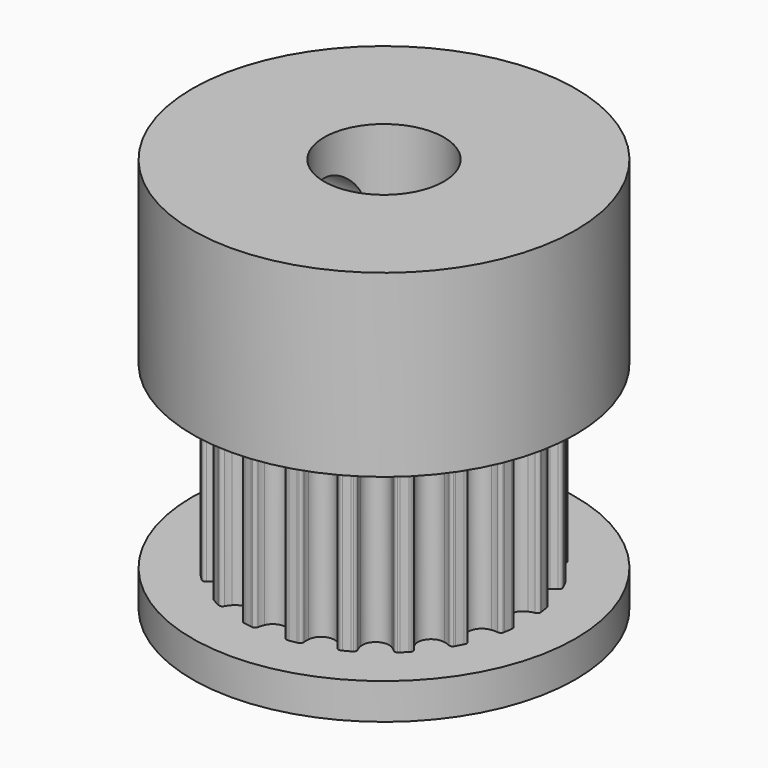
from build123d import *

# Parameters (mm, degrees)
F1_DEPTH  = 7.5
F2_R      = 8
F3_DEPTH  = 9
F4_R      = 8
F5_DEPTH  = 1.5
F6_R      = 2.5
F7_DEPTH  = 18.001
F8_R      = 1.5
F9_DEPTH  = 8.001
F10_DEPTH = 1.5


with BuildPart() as f1:
    # F0 (on Top) → F1 (new body)
    with BuildSketch(Plane.XY):
        with BuildLine():
            ThreePointArc((-0.5137469529, -5.5950260293), (0, -5.25), (0.5137469529, -5.5950260293))
            ThreePointArc((0.5137469529, -5.5950260293), (0.5592692601, -5.7125893356), (0.5896381917, -5.8349459432))
            ThreePointArc((0.5896381917, -5.8349459432), (0.634011817, -5.9169199806), (0.718236871, -5.9568562008))
            ThreePointArc((0.718236871, -5.9568562008), (0.7555100891, -5.952243653), (0.7927537045, -5.9473978818))
            ThreePointArc((0.7927537045, -5.9473978818), (0.9386067902, -5.9261300436), (1.0838934413, -5.9012858775))
            ThreePointArc((1.0838934413, -5.9012858775), (1.1208116501, -5.8943855698), (1.1576859427, -5.8872543055))
            ThreePointArc((1.1576859427, -5.8872543055), (1.2254477584, -5.82324573), (1.2423182132, -5.7315715833))
            ThreePointArc((1.2423182132, -5.7315715833), (1.2333905124, -5.6058190183), (1.2403557397, -5.4799425032))
            ThreePointArc((1.2403557397, -5.4799425032), (1.6223392205, -4.9930467105), (2.2175605143, -5.1624294247))
            ThreePointArc((2.2175605143, -5.1624294247), (2.2971838607, -5.2601716067), (2.3638767022, -5.3671551397))
            ThreePointArc((2.3638767022, -5.3671551397), (2.4314098983, -5.4314048778), (2.5238536555, -5.4433595073))
            ThreePointArc((2.5238536555, -5.4433595073), (2.5578772368, -5.4274546558), (2.5918005942, -5.4113371434))
            ThreePointArc((2.5918005942, -5.4113371434), (2.7239429984, -5.3460391451), (2.8544415451, -5.2775148949))
            ThreePointArc((2.8544415451, -5.2775148949), (2.8874205358, -5.2595439583), (2.9202863902, -5.2413669399))
            ThreePointArc((2.9202863902, -5.2413669399), (2.964951969, -5.1595516144), (2.9526678557, -5.0671510626))
            ThreePointArc((2.9526678557, -5.0671510626), (2.905317428, -4.9503120775), (2.8730437705, -4.828444024))
            ThreePointArc((2.8730437705, -4.828444024), (3.0858725745, -4.2473392205), (3.7043038019, -4.2244982593))
            ThreePointArc((3.7043038019, -4.2244982593), (3.8102340997, -4.2928516312), (3.906722491, -4.373989796))
            ThreePointArc((3.906722491, -4.373989796), (3.9908046381, -4.4142260228), (4.0824180595, -4.3970288591))
            ThreePointArc((4.0824180595, -4.3970288591), (4.1098615388, -4.3713885816), (4.1371439837, -4.3455770225))
            ThreePointArc((4.1371439837, -4.3455770225), (4.2426406871, -4.2426406871), (4.3455770225, -4.1371439837))
            ThreePointArc((4.3455770225, -4.1371439837), (4.3713885816, -4.1098615388), (4.3970288591, -4.0824180595))
            ThreePointArc((4.3970288591, -4.0824180595), (4.4142260228, -3.9908046381), (4.373989796, -3.906722491))
            ThreePointArc((4.373989796, -3.906722491), (4.2928516312, -3.8102340997), (4.2244982593, -3.7043038019))
            ThreePointArc((4.2244982593, -3.7043038019), (4.2473392205, -3.0858725745), (4.828444024, -2.8730437705))
            ThreePointArc((4.828444024, -2.8730437705), (4.9503120775, -2.905317428), (5.0671510626, -2.9526678557))
            ThreePointArc((5.0671510626, -2.9526678557), (5.1595516144, -2.964951969), (5.2413669399, -2.9202863902))
            ThreePointArc((5.2413669399, -2.9202863902), (5.2595439583, -2.8874205358), (5.2775148949, -2.8544415451))
            ThreePointArc((5.2775148949, -2.8544415451), (5.3460391451, -2.7239429984), (5.4113371434, -2.5918005942))
            ThreePointArc((5.4113371434, -2.5918005942), (5.4432427829, -2.4673716464), (5.3671551397, -2.3638767022))
            ThreePointArc((5.3671551397, -2.3638767022), (5.2601716067, -2.2971838607), (5.1624294247, -2.2175605143))
            ThreePointArc((5.1624294247, -2.2175605143), (4.9930467105, -1.6223392205), (5.4799425032, -1.2403557397))
            ThreePointArc((5.4799425032, -1.2403557397), (5.6058190183, -1.2333905124), (5.7315715833, -1.2423182132))
            ThreePointArc((5.7315715833, -1.2423182132), (5.82324573, -1.2254477584), (5.8872543055, -1.1576859427))
            ThreePointArc((5.8872543055, -1.1576859427), (5.8943855698, -1.1208116501), (5.9012858775, -1.0838934413))
            ThreePointArc((5.9012858775, -1.0838934413), (5.9261300436, -0.9386067902), (5.9473978818, -0.7927537045))
            ThreePointArc((5.9473978818, -0.7927537045), (5.952243653, -0.7555100891), (5.9568562008, -0.718236871))
            ThreePointArc((5.9568562008, -0.718236871), (5.9169199806, -0.634011817), (5.8349459432, -0.5896381917))
            ThreePointArc((5.8349459432, -0.5896381917), (5.7125893356, -0.5592692601), (5.5950260293, -0.5137469529))
            ThreePointArc((5.5950260293, -0.5137469529), (5.25, 0), (5.5950260293, 0.5137469529))
            ThreePointArc((5.5950260293, 0.5137469529), (5.7125893356, 0.5592692601), (5.8349459432, 0.5896381917))
            ThreePointArc((5.8349459432, 0.5896381917), (5.9169199806, 0.634011817), (5.9568562008, 0.718236871))
            ThreePointArc((5.9568562008, 0.718236871), (5.952243653, 0.7555100891), (5.9473978818, 0.7927537045))
            ThreePointArc((5.9473978818, 0.7927537045), (5.9261300436, 0.9386067902), (5.9012858775, 1.0838934413))
            ThreePointArc((5.9012858775, 1.0838934413), (5.8943855698, 1.1208116501), (5.8872543055, 1.1576859427))
            ThreePointArc((5.8872543055, 1.1576859427), (5.82324573, 1.2254477584), (5.7315715833, 1.2423182132))
            ThreePointArc((5.7315715833, 1.2423182132), (5.6058190183, 1.2333905124), (5.4799425032, 1.2403557397))
            ThreePointArc((5.4799425032, 1.2403557397), (4.9930467105, 1.6223392205), (5.1624294247, 2.2175605143))
            ThreePointArc((5.1624294247, 2.2175605143), (5.2601716067, 2.2971838607), (5.3671551397, 2.3638767022))
            ThreePointArc((5.3671551397, 2.3638767022), (5.4314048778, 2.4314098983), (5.4433595073, 2.5238536555))
            ThreePointArc((5.4433595073, 2.5238536555), (5.4274546558, 2.5578772368), (5.4113371434, 2.5918005942))
            ThreePointArc((5.4113371434, 2.5918005942), (5.3460391451, 2.7239429984), (5.2775148949, 2.8544415451))
            ThreePointArc((5.2775148949, 2.8544415451), (5.2595439583, 2.8874205358), (5.2413669399, 2.9202863902))
            ThreePointArc((5.2413669399, 2.9202863902), (5.1595516144, 2.964951969), (5.0671510626, 2.9526678557))
            ThreePointArc((5.0671510626, 2.9526678557), (4.9503120775, 2.905317428), (4.828444024, 2.8730437705))
            ThreePointArc((4.828444024, 2.8730437705), (4.2473392205, 3.0858725745), (4.2244982593, 3.7043038019))
            ThreePointArc((4.2244982593, 3.7043038019), (4.2928516312, 3.8102340997), (4.373989796, 3.906722491))
            ThreePointArc((4.373989796, 3.906722491), (4.4142260228, 3.9908046381), (4.3970288591, 4.0824180595))
            ThreePointArc((4.3970288591, 4.0824180595), (4.3713885816, 4.1098615388), (4.3455770225, 4.1371439837))
            ThreePointArc((4.3455770225, 4.1371439837), (4.2426406871, 4.2426406871), (4.1371439837, 4.3455770225))
            ThreePointArc((4.1371439837, 4.3455770225), (4.1098615388, 4.3713885816), (4.0824180595, 4.3970288591))
            ThreePointArc((4.0824180595, 4.3970288591), (3.9908046381, 4.4142260228), (3.906722491, 4.373989796))
            ThreePointArc((3.906722491, 4.373989796), (3.8102340997, 4.2928516312), (3.7043038019, 4.2244982593))
            ThreePointArc((3.7043038019, 4.2244982593), (3.0858725745, 4.2473392205), (2.8730437705, 4.828444024))
            ThreePointArc((2.8730437705, 4.828444024), (2.905317428, 4.9503120775), (2.9526678557, 5.0671510626))
            ThreePointArc((2.9526678557, 5.0671510626), (2.964951969, 5.1595516144), (2.9202863902, 5.2413669399))
            ThreePointArc((2.9202863902, 5.2413669399), (2.8874205358, 5.2595439583), (2.8544415451, 5.2775148949))
            ThreePointArc((2.8544415451, 5.2775148949), (2.7239429984, 5.3460391451), (2.5918005942, 5.4113371434))
            ThreePointArc((2.5918005942, 5.4113371434), (2.5578772368, 5.4274546558), (2.5238536555, 5.4433595073))
            ThreePointArc((2.5238536555, 5.4433595073), (2.4314098983, 5.4314048778), (2.3638767022, 5.3671551397))
            ThreePointArc((2.3638767022, 5.3671551397), (2.2971838607, 5.2601716067), (2.2175605143, 5.1624294247))
            ThreePointArc((2.2175605143, 5.1624294247), (1.6223392205, 4.9930467105), (1.2403557397, 5.4799425032))
            ThreePointArc((1.2403557397, 5.4799425032), (1.2333905124, 5.6058190183), (1.2423182132, 5.7315715833))
            ThreePointArc((1.2423182132, 5.7315715833), (1.2254477584, 5.82324573), (1.1576859427, 5.8872543055))
            ThreePointArc((1.1576859427, 5.8872543055), (1.1208116501, 5.8943855698), (1.0838934413, 5.9012858775))
            ThreePointArc((1.0838934413, 5.9012858775), (0.9386067902, 5.9261300436), (0.7927537045, 5.9473978818))
            ThreePointArc((0.7927537045, 5.9473978818), (0.7555100891, 5.952243653), (0.718236871, 5.9568562008))
            ThreePointArc((0.718236871, 5.9568562008), (0.634011817, 5.9169199806), (0.5896381917, 5.8349459432))
            ThreePointArc((0.5896381917, 5.8349459432), (0.5592692601, 5.7125893356), (0.5137469529, 5.5950260293))
            ThreePointArc((0.5137469529, 5.5950260293), (0, 5.25), (-0.5137469529, 5.5950260293))
            ThreePointArc((-0.5137469529, 5.5950260293), (-0.5592692601, 5.7125893356), (-0.5896381917, 5.8349459432))
            ThreePointArc((-0.5896381917, 5.8349459432), (-0.634011817, 5.9169199806), (-0.718236871, 5.9568562008))
            ThreePointArc((-0.718236871, 5.9568562008), (-0.7555100891, 5.952243653), (-0.7927537045, 5.9473978818))
            ThreePointArc((-0.7927537045, 5.9473978818), (-0.9386067902, 5.9261300436), (-1.0838934413, 5.9012858775))
            ThreePointArc((-1.0838934413, 5.9012858775), (-1.1208116501, 5.8943855698), (-1.1576859427, 5.8872543055))
            ThreePointArc((-1.1576859427, 5.8872543055), (-1.2254477584, 5.82324573), (-1.2423182132, 5.7315715833))
            ThreePointArc((-1.2423182132, 5.7315715833), (-1.2333905124, 5.6058190183), (-1.2403557397, 5.4799425032))
            ThreePointArc((-1.2403557397, 5.4799425032), (-1.6223392205, 4.9930467105), (-2.2175605143, 5.1624294247))
            ThreePointArc((-2.2175605143, 5.1624294247), (-2.2971838607, 5.2601716067), (-2.3638767022, 5.3671551397))
            ThreePointArc((-2.3638767022, 5.3671551397), (-2.4314098983, 5.4314048778), (-2.5238536555, 5.4433595073))
            ThreePointArc((-2.5238536555, 5.4433595073), (-2.5578772368, 5.4274546558), (-2.5918005942, 5.4113371434))
            ThreePointArc((-2.5918005942, 5.4113371434), (-2.7239429984, 5.3460391451), (-2.8544415451, 5.2775148949))
            ThreePointArc((-2.8544415451, 5.2775148949), (-2.8874205358, 5.2595439583), (-2.9202863902, 5.2413669399))
            ThreePointArc((-2.9202863902, 5.2413669399), (-2.964951969, 5.1595516144), (-2.9526678557, 5.0671510626))
            ThreePointArc((-2.9526678557, 5.0671510626), (-2.905317428, 4.9503120775), (-2.8730437705, 4.828444024))
            ThreePointArc((-2.8730437705, 4.828444024), (-3.0858725745, 4.2473392205), (-3.7043038019, 4.2244982593))
            ThreePointArc((-3.7043038019, 4.2244982593), (-3.8102340997, 4.2928516312), (-3.906722491, 4.373989796))
            ThreePointArc((-3.906722491, 4.373989796), (-3.9908046381, 4.4142260228), (-4.0824180595, 4.3970288591))
            ThreePointArc((-4.0824180595, 4.3970288591), (-4.1098615388, 4.3713885816), (-4.1371439837, 4.3455770225))
            ThreePointArc((-4.1371439837, 4.3455770225), (-4.2426406871, 4.2426406871), (-4.3455770225, 4.1371439837))
            ThreePointArc((-4.3455770225, 4.1371439837), (-4.3713885816, 4.1098615388), (-4.3970288591, 4.0824180595))
            ThreePointArc((-4.3970288591, 4.0824180595), (-4.4142260228, 3.9908046381), (-4.373989796, 3.906722491))
            ThreePointArc((-4.373989796, 3.906722491), (-4.2928516312, 3.8102340997), (-4.2244982593, 3.7043038019))
            ThreePointArc((-4.2244982593, 3.7043038019), (-4.2473392205, 3.0858725745), (-4.828444024, 2.8730437705))
            ThreePointArc((-4.828444024, 2.8730437705), (-4.9503120775, 2.905317428), (-5.0671510626, 2.9526678557))
            ThreePointArc((-5.0671510626, 2.9526678557), (-5.1595516144, 2.964951969), (-5.2413669399, 2.9202863902))
            ThreePointArc((-5.2413669399, 2.9202863902), (-5.2595439583, 2.8874205358), (-5.2775148949, 2.8544415451))
            ThreePointArc((-5.2775148949, 2.8544415451), (-5.3460391451, 2.7239429984), (-5.4113371434, 2.5918005942))
            ThreePointArc((-5.4113371434, 2.5918005942), (-5.4274546558, 2.5578772368), (-5.4433595073, 2.5238536555))
            ThreePointArc((-5.4433595073, 2.5238536555), (-5.4314048778, 2.4314098983), (-5.3671551397, 2.3638767022))
            ThreePointArc((-5.3671551397, 2.3638767022), (-5.2601716067, 2.2971838607), (-5.1624294247, 2.2175605143))
            ThreePointArc((-5.1624294247, 2.2175605143), (-4.9930467105, 1.6223392205), (-5.4799425032, 1.2403557397))
            ThreePointArc((-5.4799425032, 1.2403557397), (-5.6058190183, 1.2333905124), (-5.7315715833, 1.2423182132))
            ThreePointArc((-5.7315715833, 1.2423182132), (-5.82324573, 1.2254477584), (-5.8872543055, 1.1576859427))
            ThreePointArc((-5.8872543055, 1.1576859427), (-5.8943855698, 1.1208116501), (-5.9012858775, 1.0838934413))
            ThreePointArc((-5.9012858775, 1.0838934413), (-5.9261300436, 0.9386067902), (-5.9473978818, 0.7927537045))
            ThreePointArc((-5.9473978818, 0.7927537045), (-5.952243653, 0.7555100891), (-5.9568562008, 0.718236871))
            ThreePointArc((-5.9568562008, 0.718236871), (-5.9169199806, 0.634011817), (-5.8349459432, 0.5896381917))
            ThreePointArc((-5.8349459432, 0.5896381917), (-5.7125893356, 0.5592692601), (-5.5950260293, 0.5137469529))
            ThreePointArc((-5.5950260293, 0.5137469529), (-5.25, 0), (-5.5950260293, -0.5137469529))
            ThreePointArc((-5.5950260293, -0.5137469529), (-5.7125893356, -0.5592692601), (-5.8349459432, -0.5896381917))
            ThreePointArc((-5.8349459432, -0.5896381917), (-5.9169199806, -0.634011817), (-5.9568562008, -0.718236871))
            ThreePointArc((-5.9568562008, -0.718236871), (-5.952243653, -0.7555100891), (-5.9473978818, -0.7927537045))
            ThreePointArc((-5.9473978818, -0.7927537045), (-5.9261300436, -0.9386067902), (-5.9012858775, -1.0838934413))
            ThreePointArc((-5.9012858775, -1.0838934413), (-5.8943855698, -1.1208116501), (-5.8872543055, -1.1576859427))
            ThreePointArc((-5.8872543055, -1.1576859427), (-5.82324573, -1.2254477584), (-5.7315715833, -1.2423182132))
            ThreePointArc((-5.7315715833, -1.2423182132), (-5.6058190183, -1.2333905124), (-5.4799425032, -1.2403557397))
            ThreePointArc((-5.4799425032, -1.2403557397), (-4.9930467105, -1.6223392205), (-5.1624294247, -2.2175605143))
            ThreePointArc((-5.1624294247, -2.2175605143), (-5.2601716067, -2.2971838607), (-5.3671551397, -2.3638767022))
            ThreePointArc((-5.3671551397, -2.3638767022), (-5.4314048778, -2.4314098983), (-5.4433595073, -2.5238536555))
            ThreePointArc((-5.4433595073, -2.5238536555), (-5.4274546558, -2.5578772368), (-5.4113371434, -2.5918005942))
            ThreePointArc((-5.4113371434, -2.5918005942), (-5.3460391451, -2.7239429984), (-5.2775148949, -2.8544415451))
            ThreePointArc((-5.2775148949, -2.8544415451), (-5.2595439583, -2.8874205358), (-5.2413669399, -2.9202863902))
            ThreePointArc((-5.2413669399, -2.9202863902), (-5.1595516144, -2.964951969), (-5.0671510626, -2.9526678557))
            ThreePointArc((-5.0671510626, -2.9526678557), (-4.9503120775, -2.905317428), (-4.828444024, -2.8730437705))
            ThreePointArc((-4.828444024, -2.8730437705), (-4.2473392205, -3.0858725745), (-4.2244982593, -3.7043038019))
            ThreePointArc((-4.2244982593, -3.7043038019), (-4.2928516312, -3.8102340997), (-4.373989796, -3.906722491))
            ThreePointArc((-4.373989796, -3.906722491), (-4.4142260228, -3.9908046381), (-4.3970288591, -4.0824180595))
            ThreePointArc((-4.3970288591, -4.0824180595), (-4.3713885816, -4.1098615388), (-4.3455770225, -4.1371439837))
            ThreePointArc((-4.3455770225, -4.1371439837), (-4.2426406871, -4.2426406871), (-4.1371439837, -4.3455770225))
            ThreePointArc((-4.1371439837, -4.3455770225), (-4.1098615388, -4.3713885816), (-4.0824180595, -4.3970288591))
            ThreePointArc((-4.0824180595, -4.3970288591), (-3.9908046381, -4.4142260228), (-3.906722491, -4.373989796))
            ThreePointArc((-3.906722491, -4.373989796), (-3.8102340997, -4.2928516312), (-3.7043038019, -4.2244982593))
            ThreePointArc((-3.7043038019, -4.2244982593), (-3.0858725745, -4.2473392205), (-2.8730437705, -4.828444024))
            ThreePointArc((-2.8730437705, -4.828444024), (-2.905317428, -4.9503120775), (-2.9526678557, -5.0671510626))
            ThreePointArc((-2.9526678557, -5.0671510626), (-2.964951969, -5.1595516144), (-2.9202863902, -5.2413669399))
            ThreePointArc((-2.9202863902, -5.2413669399), (-2.8874205358, -5.2595439583), (-2.8544415451, -5.2775148949))
            ThreePointArc((-2.8544415451, -5.2775148949), (-2.7239429984, -5.3460391451), (-2.5918005942, -5.4113371434))
            ThreePointArc((-2.5918005942, -5.4113371434), (-2.5578772368, -5.4274546558), (-2.5238536555, -5.4433595073))
            ThreePointArc((-2.5238536555, -5.4433595073), (-2.4314098983, -5.4314048778), (-2.3638767022, -5.3671551397))
            ThreePointArc((-2.3638767022, -5.3671551397), (-2.2971838607, -5.2601716067), (-2.2175605143, -5.1624294247))
            ThreePointArc((-2.2175605143, -5.1624294247), (-1.6223392205, -4.9930467105), (-1.2403557397, -5.4799425032))
            ThreePointArc((-1.2403557397, -5.4799425032), (-1.2333905124, -5.6058190183), (-1.2423182132, -5.7315715833))
            ThreePointArc((-1.2423182132, -5.7315715833), (-1.2254477584, -5.82324573), (-1.1576859427, -5.8872543055))
            ThreePointArc((-1.1576859427, -5.8872543055), (-1.1208116501, -5.8943855698), (-1.0838934413, -5.9012858775))
            ThreePointArc((-1.0838934413, -5.9012858775), (-0.9386067902, -5.9261300436), (-0.7927537045, -5.9473978818))
            ThreePointArc((-0.7927537045, -5.9473978818), (-0.7555100891, -5.952243653), (-0.718236871, -5.9568562008))
            ThreePointArc((-0.718236871, -5.9568562008), (-0.634011817, -5.9169199806), (-0.5896381917, -5.8349459432))
            ThreePointArc((-0.5896381917, -5.8349459432), (-0.5592692601, -5.7125893356), (-0.5137469529, -5.5950260293))
        make_face()
    extrude(amount=F1_DEPTH)

    # F2 (on face) → F3 (join)
    with BuildSketch(Plane.XY.offset(7.5)):
        Circle(F2_R)
    extrude(amount=F3_DEPTH)

    # F4 (on face) → F5 (join)
    with BuildSketch(Plane(origin=(0, 0, 0), x_dir=(1, 0, 0), z_dir=(0, 0, -1))):
        Circle(F4_R)
    extrude(amount=F5_DEPTH)

    # F6 (on face) → F7 (cut, through all)
    with BuildSketch(Plane(origin=(0, 0, -1.5), x_dir=(1, 0, 0), z_dir=(0, 0, -1))):
        Circle(F6_R)
    extrude(amount=-F7_DEPTH, mode=Mode.SUBTRACT)

    # F8 (on Right) → F9 (cut, through all)
    with BuildSketch(Plane.YZ):
        with Locations((0, 12)):
            Circle(F8_R)
    extrude(amount=-F9_DEPTH, mode=Mode.SUBTRACT)

    # F10 (cut): a face of the model
    f10_faces = [f1.faces().sort_by_distance(p)[0] for p in [
        (-7.77372583, 0, 16.5),
    ]]
    extrude(f10_faces, amount=-F10_DEPTH, mode=Mode.SUBTRACT)


solid = f1.part
